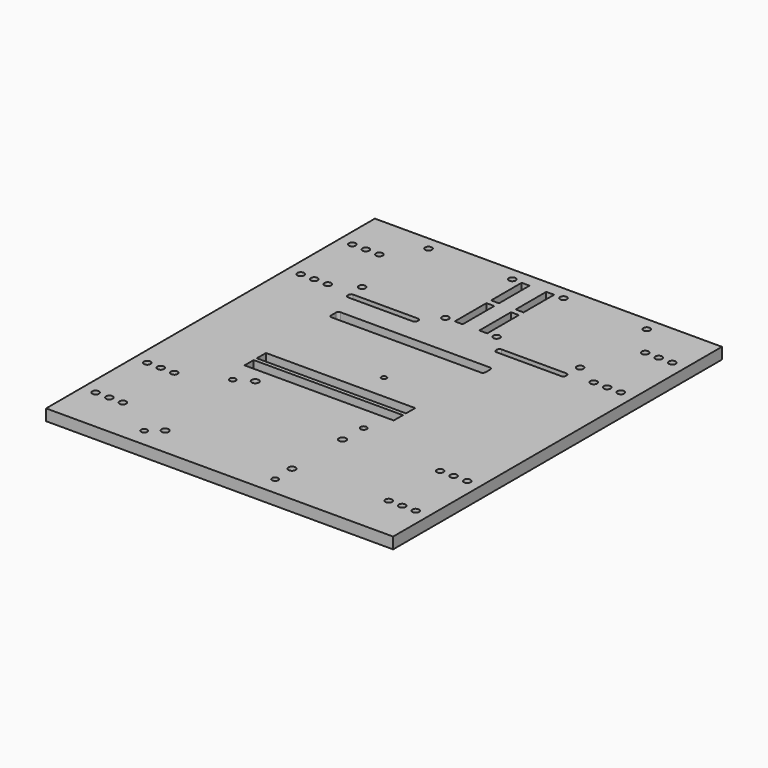
from build123d import *

# Parameters (mm, degrees)
F0_R     = 1.494301
F0_R_2   = 1.356788
F0_R_3   = 1.5875
F0_W     = 66.04
F0_H     = 5.08
F0_W_2   = 3.491225
F0_H_2   = 17.486991
F0_H_3   = 16.910404
F0_R_4   = 1.133922
F1_DEPTH = 5.0038


with BuildPart() as f1:
    # F0 (on Top) → F1 (new body)
    with BuildSketch(Plane.XY):
        Polygon((70.456985, 90.965845), (-70.456985, 90.965845), (-76.806985, 90.965845), (-76.806985, 84.615845), (-76.806985, -84.615845), (-76.806985, -90.965845), (-70.456985, -90.965845), (70.456985, -90.965845), (76.806985, -90.965845), (76.806985, -84.615845), (76.806985, 84.615845), (76.806985, 90.965845), align=None)
        with Locations((-70.824079, -70.982955)):
            Circle(F0_R, mode=Mode.SUBTRACT)
        with Locations((-64.820901, -70.966512)):
            Circle(F0_R, mode=Mode.SUBTRACT)
        with Locations((-58.837254, -70.966512)):
            Circle(F0_R, mode=Mode.SUBTRACT)
        with Locations((-39.865345, -82.879322)):
            Circle(F0_R_2, mode=Mode.SUBTRACT)
        with Locations((-34.309838, -78.185227)):
            Circle(F0_R_3, mode=Mode.SUBTRACT)
        with Locations((-70.834705, -42.482955)):
            Circle(F0_R, mode=Mode.SUBTRACT)
        with Locations((-64.831526, -42.467712)):
            Circle(F0_R, mode=Mode.SUBTRACT)
        with Locations((-58.847879, -42.467712)):
            Circle(F0_R, mode=Mode.SUBTRACT)
        with Locations((-39.865345, -33.888042)):
            Circle(F0_R_2, mode=Mode.SUBTRACT)
        with Locations((-33.039838, -29.925227)):
            Circle(F0_R_3, mode=Mode.SUBTRACT)
        with Locations((-10.337991, -20.430786)):
            Rectangle(F0_W, F0_H, mode=Mode.SUBTRACT)
        with Locations((-10.337991, -13.637)):
            Rectangle(F0_W, F0_H, mode=Mode.SUBTRACT)
        with Locations((18.120408, -82.87932)):
            Circle(F0_R_2, mode=Mode.SUBTRACT)
        with Locations((17.760162, -73.105227)):
            Circle(F0_R_3, mode=Mode.SUBTRACT)
        with Locations((58.837254, -70.966512)):
            Circle(F0_R, mode=Mode.SUBTRACT)
        with Locations((64.820901, -70.966512)):
            Circle(F0_R, mode=Mode.SUBTRACT)
        with Locations((70.824079, -70.982955)):
            Circle(F0_R, mode=Mode.SUBTRACT)
        with Locations((17.760162, -45.165227)):
            Circle(F0_R_3, mode=Mode.SUBTRACT)
        with Locations((18.120408, -33.888042)):
            Circle(F0_R_2, mode=Mode.SUBTRACT)
        with Locations((58.847879, -42.467712)):
            Circle(F0_R, mode=Mode.SUBTRACT)
        with Locations((64.831526, -42.467712)):
            Circle(F0_R, mode=Mode.SUBTRACT)
        with Locations((70.834705, -42.482955)):
            Circle(F0_R, mode=Mode.SUBTRACT)
        with Locations((-70.834705, 42.482955)):
            Circle(F0_R, mode=Mode.SUBTRACT)
        with Locations((-64.831526, 42.467712)):
            Circle(F0_R, mode=Mode.SUBTRACT)
        with Locations((-58.847878, 42.482955)):
            Circle(F0_R, mode=Mode.SUBTRACT)
        with BuildLine():
            ThreePointArc((-48.263557, 40.736089), (-47.935968, 41.52696), (-47.145098, 41.854549))
            Line((-47.145098, 41.854549), (-34.13846, 41.854549))
            Line((-34.13846, 41.854549), (-31.515838, 41.854549))
            Line((-31.515838, 41.854549), (-18.5092, 41.854549))
            ThreePointArc((-18.5092, 41.854549), (-17.718329, 41.52696), (-17.39074, 40.736089))
            Line((-17.39074, 40.736089), (-17.39074, 40.22988))
            ThreePointArc((-17.39074, 40.22988), (-17.718329, 39.43901), (-18.5092, 39.111421))
            Line((-18.5092, 39.111421), (-31.515838, 39.111421))
            Line((-31.515838, 39.111421), (-34.13846, 39.111421))
            Line((-34.13846, 39.111421), (-47.145098, 39.111421))
            ThreePointArc((-47.145098, 39.111421), (-47.935968, 39.43901), (-48.263557, 40.22988))
            Line((-48.263557, 40.22988), (-48.263557, 40.736089))
        make_face(mode=Mode.SUBTRACT)
        with BuildLine():
            Line((23.800469, 23.877405), (-42.239531, 23.877405))
            ThreePointArc((-42.239531, 23.877405), (-43.030401, 24.204994), (-43.357991, 24.995864))
            Line((-43.357991, 24.995864), (-43.357991, 27.672048))
            ThreePointArc((-43.357991, 27.672048), (-43.030401, 28.462918), (-42.239531, 28.790507))
            Line((-42.239531, 28.790507), (15.032583, 28.790507))
            Line((15.032583, 28.790507), (19.658049, 28.790507))
            Line((19.658049, 28.790507), (23.800469, 28.790507))
            ThreePointArc((23.800469, 28.790507), (24.59134, 28.462918), (24.918929, 27.672048))
            Line((24.918929, 27.672048), (24.918929, 24.995864))
            ThreePointArc((24.918929, 24.995864), (24.59134, 24.204994), (23.800469, 23.877405))
        make_face(mode=Mode.SUBTRACT)
        with Locations((-48.263557, 48.184544)):
            Circle(F0_R, mode=Mode.SUBTRACT)
        with Locations((-70.824079, 70.982955)):
            Circle(F0_R, mode=Mode.SUBTRACT)
        with Locations((-64.820901, 70.966512)):
            Circle(F0_R, mode=Mode.SUBTRACT)
        with Locations((-58.837252, 70.981755)):
            Circle(F0_R, mode=Mode.SUBTRACT)
        with Locations((-48.292145, 85.000329)):
            Circle(F0_R, mode=Mode.SUBTRACT)
        with Locations((-11.321435, 48.135974)):
            Circle(F0_R, mode=Mode.SUBTRACT)
        with Locations((-5.441815, 56.879467)):
            Rectangle(F0_W_2, F0_H_2, mode=Mode.SUBTRACT)
        with Locations((-5.441815, 76.696746)):
            Rectangle(F0_W_2, F0_H_3, mode=Mode.SUBTRACT)
        with Locations((-11.321435, 85.151948)):
            Circle(F0_R, mode=Mode.SUBTRACT)
        Circle(F0_R_4, mode=Mode.SUBTRACT)
        with BuildLine():
            Line((31.515838, 39.111421), (18.5092, 39.111421))
            ThreePointArc((18.5092, 39.111421), (17.718329, 39.43901), (17.39074, 40.22988))
            Line((17.39074, 40.22988), (17.39074, 40.736089))
            ThreePointArc((17.39074, 40.736089), (17.718329, 41.52696), (18.5092, 41.854549))
            Line((18.5092, 41.854549), (31.515838, 41.854549))
            Line((31.515838, 41.854549), (34.13846, 41.854549))
            Line((34.13846, 41.854549), (47.145098, 41.854549))
            ThreePointArc((47.145098, 41.854549), (47.935968, 41.52696), (48.263557, 40.736089))
            Line((48.263557, 40.736089), (48.263557, 40.22988))
            ThreePointArc((48.263557, 40.22988), (47.935968, 39.43901), (47.145098, 39.111421))
            Line((47.145098, 39.111421), (34.13846, 39.111421))
            Line((34.13846, 39.111421), (31.515838, 39.111421))
        make_face(mode=Mode.SUBTRACT)
        with Locations((58.847878, 42.482955)):
            Circle(F0_R, mode=Mode.SUBTRACT)
        with Locations((64.831526, 42.467712)):
            Circle(F0_R, mode=Mode.SUBTRACT)
        with Locations((70.834705, 42.482955)):
            Circle(F0_R, mode=Mode.SUBTRACT)
        with Locations((11.321435, 48.135974)):
            Circle(F0_R, mode=Mode.SUBTRACT)
        with Locations((5.441815, 56.879467)):
            Rectangle(F0_W_2, F0_H_2, mode=Mode.SUBTRACT)
        with Locations((5.441815, 76.696746)):
            Rectangle(F0_W_2, F0_H_3, mode=Mode.SUBTRACT)
        with Locations((11.321435, 85.151948)):
            Circle(F0_R, mode=Mode.SUBTRACT)
        with Locations((48.263557, 48.184544)):
            Circle(F0_R, mode=Mode.SUBTRACT)
        with Locations((48.292145, 85.000329)):
            Circle(F0_R, mode=Mode.SUBTRACT)
        with Locations((58.837252, 70.981755)):
            Circle(F0_R, mode=Mode.SUBTRACT)
        with Locations((64.820901, 70.966512)):
            Circle(F0_R, mode=Mode.SUBTRACT)
        with Locations((70.824079, 70.982955)):
            Circle(F0_R, mode=Mode.SUBTRACT)
    extrude(amount=F1_DEPTH)


solid = f1.part
